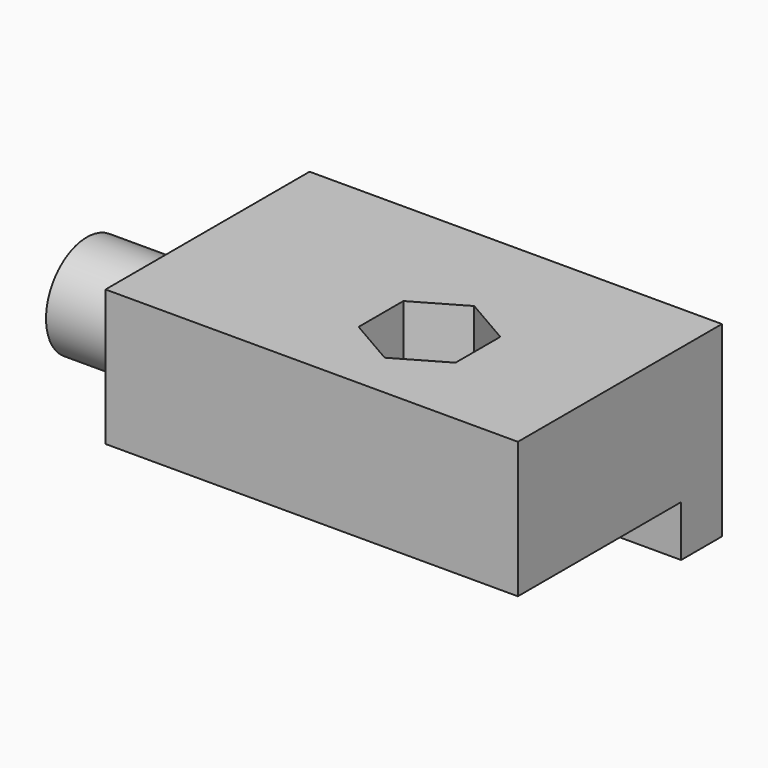
from build123d import *

# Parameters (mm, degrees)
SKETCH068_W     = 12
SKETCH068_H     = 8
PAD060_DEPTH    = 24.25
SKETCH069_R     = 3
SKETCH069_R_2   = 1
PAD061_DEPTH    = 5.9
SKETCH071_R     = 1.55
POCKET_DEPTH    = 8.001
POCKET001_DEPTH = 3
SKETCH072_W     = 11
SKETCH072_H     = 24.25
PAD062_DEPTH    = 3


with BuildPart() as front_axle_right:
    # Sketch068 → Pad060 (new body)
    with BuildSketch(Plane.YZ):
        with Locations((38, -7.15)):
            Rectangle(SKETCH068_W, SKETCH068_H)
    extrude(amount=PAD060_DEPTH)

    # Sketch069 (on Face6 of Pad060) → Pad061 (join)
    with BuildSketch(Plane.YZ.offset(24.25)):
        with Locations((38, -7.8)):
            Circle(SKETCH069_R)
        with Locations((38, -7.8)):
            Circle(SKETCH069_R_2, mode=Mode.SUBTRACT)
    extrude(amount=PAD061_DEPTH)

    # Sketch071 (on Face1 of Pad061) → Pocket (cut, through all)
    with BuildSketch(Plane(origin=(0, 0, -3.15), x_dir=(0, -1, 0), z_dir=(0, 0, 1))):
        with Locations((-38, 10)):
            Circle(SKETCH071_R)
    extrude(amount=-POCKET_DEPTH, mode=Mode.SUBTRACT)

    # Sketch070 (on Face1 of Pocket) → Pocket001 (cut)
    with BuildSketch(Plane(origin=(0, 0, -3.15), x_dir=(0, -1, 0), z_dir=(0, 0, 1))):
        Polygon((-34.709103, 10), (-36.354552, 12.85), (-39.645448, 12.85), (-41.290897, 10), (-39.645448, 7.15), (-36.354552, 7.15), align=None)
    extrude(amount=-POCKET001_DEPTH, mode=Mode.SUBTRACT)

    # Sketch072 (on Face5 of Pocket001) → Pad062 (join)
    with BuildSketch(Plane.ZX.offset(44)):
        with Locations((-8.65, 12.125)):
            Rectangle(SKETCH072_W, SKETCH072_H)
    extrude(amount=PAD062_DEPTH)


with BuildPart() as front_axle_right_mirrored:
    # Mirror: instance of front_axle_right
    add(front_axle_right.part.mirror(Plane(origin=(3e-06, 39.5, -8.649999), x_dir=(0, -1, 0), z_dir=(1, 0, 0))))


solid = front_axle_right_mirrored.part
